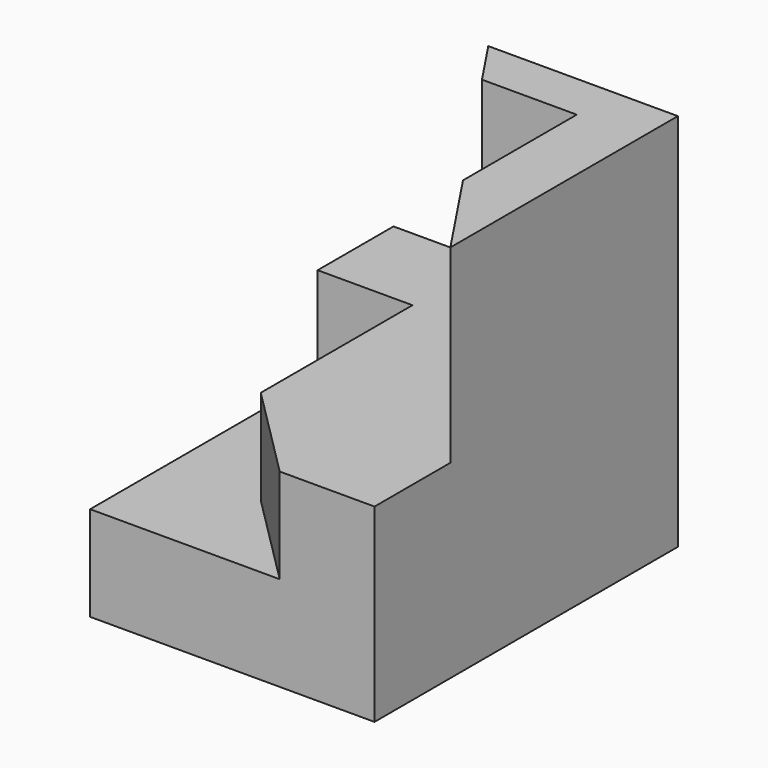
from build123d import *

# Parameters (mm, degrees)
F0_W     = 40
F0_H     = 40
F1_DEPTH = 30
F3_DEPTH = 20
F5_DEPTH = 10
F7_DEPTH = 10
F8_ANGLE = 90


with BuildPart() as f1:
    # F0 (on Top) → F1 (new body)
    with BuildSketch(Plane.XY):
        Rectangle(F0_W, F0_H)
    extrude(amount=F1_DEPTH)

    # F2 (on face) → F3 (cut)
    with BuildSketch(Plane.YZ.offset(20)):
        Polygon((20, 30), (-20, 30), (-20, 0), (-10, 0), (20, 20), align=None)
    extrude(amount=-F3_DEPTH, mode=Mode.SUBTRACT)

    # F4 (on face) → F5 (cut)
    with BuildSketch(Plane.YZ):
        Polygon((10, 30), (-20, 30), (-20, 10), (-10, 20), (10, 20), align=None)
    extrude(amount=-F5_DEPTH, mode=Mode.SUBTRACT)

    # F6 (on face) → F7 (cut)
    with BuildSketch(Plane.YZ.offset(20)):
        Polygon((15, 6.666667), (15, 16.666667), (0, 6.666667), align=None)
    extrude(amount=-F7_DEPTH, mode=Mode.SUBTRACT)


with BuildPart() as f1_1:
    # F8: moved
    add(f1.part.rotate(Axis((-20, 0, 0), (0, -1, 0)), F8_ANGLE))


with BuildPart() as f1_2:
    # F9: moved
    add(f1_1.part.moved(Location((33.4, 0, 0))))


solid = f1_2.part
